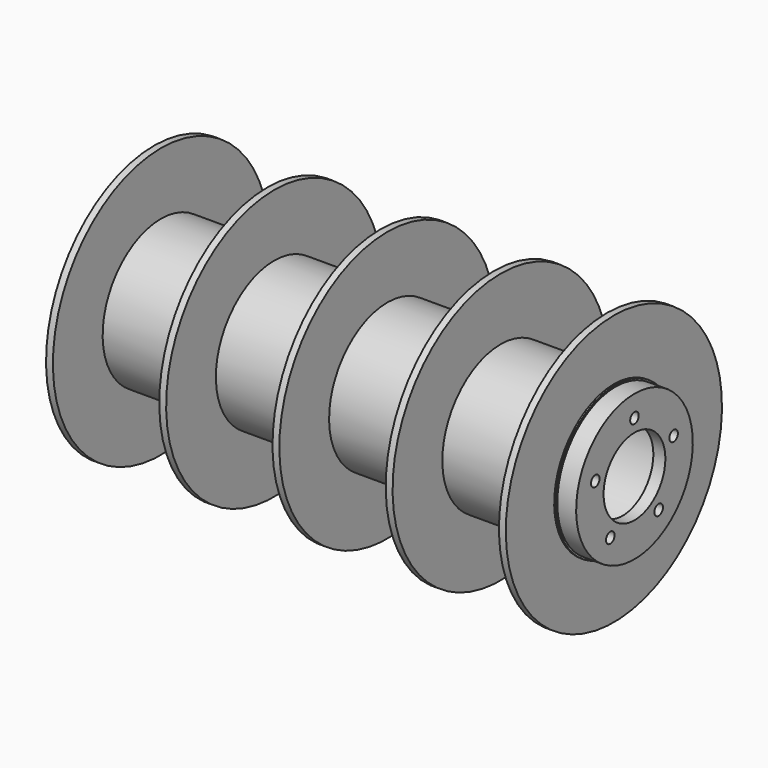
from build123d import *

# Parameters (mm, degrees)
F2_R     = 6.25
F3_DEPTH = 584.001
F4_R     = 7.5
F5_DEPTH = 116


with BuildPart() as f1:
    # F0 (on Front) → F1 (revolve)
    with BuildSketch(Plane.XZ):
        Polygon((4, 157.5), (0, 157.5), (-4, 157.5), (-4, 85), (-128, 85), (-128, 157.5), (-136, 157.5), (-136, 85), (-260, 85), (-260, 157.5), (-268, 157.5), (-268, 87), (-270, 87), (-270, 85), (-292, 85), (-292, 45), (-278, 45), (-278, 79), (0, 79), (278, 79), (278, 45), (292, 45), (292, 85), (270, 85), (270, 87), (268, 87), (268, 157.5), (260, 157.5), (260, 85), (136, 85), (136, 157.5), (128, 157.5), (128, 85), (4, 85), align=None)
    revolve(axis=Axis((-161.670029, 0, 0), (-1, 0, 0)))

    # F2 (on face) → F3 (cut, through all)
    with BuildSketch(Plane.YZ.offset(292)):
        with Locations((0, 60)):
            Circle(F2_R)
        with Locations((-57.063391, 18.54102)):
            Circle(F2_R)
        with Locations((-35.267115, -48.54102)):
            Circle(F2_R)
        with Locations((35.267115, -48.54102)):
            Circle(F2_R)
        with Locations((57.063391, 18.54102)):
            Circle(F2_R)
    extrude(amount=-F3_DEPTH, mode=Mode.SUBTRACT)

    # F4 (on Top) → F5 (cut)
    with BuildSketch(Plane.XY):
        with Locations((-250, 65)):
            Circle(F4_R)
        with Locations((-118, 65)):
            Circle(F4_R)
        with Locations((14, 65)):
            Circle(F4_R)
        with Locations((146, 65)):
            Circle(F4_R)
    extrude(amount=F5_DEPTH, mode=Mode.SUBTRACT)


solid = f1.part
